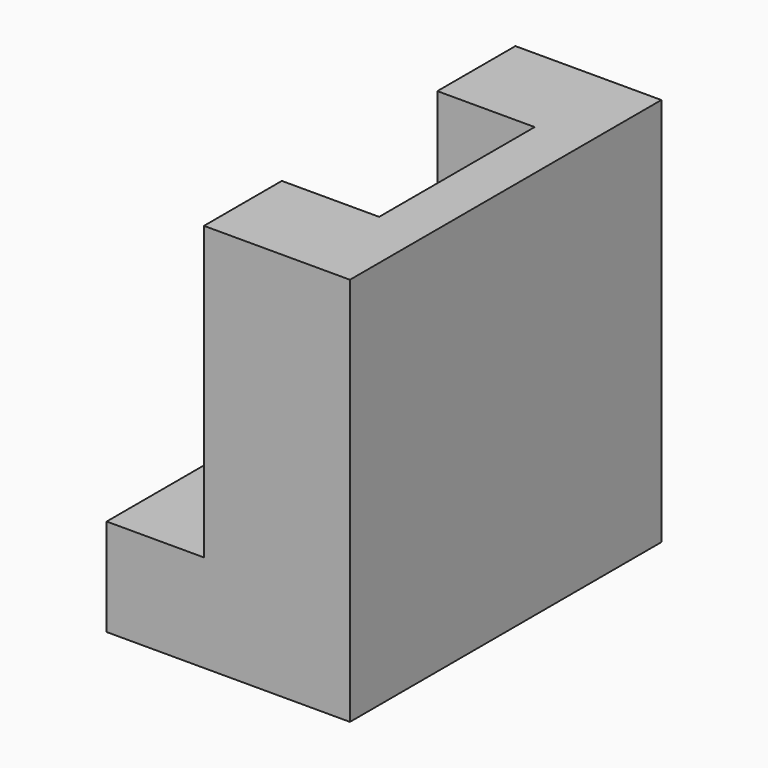
from build123d import *

# Parameters (mm, degrees)
F1_DEPTH = 101.6
F2_DEPTH = 25.4
F3_W     = 25.4
F3_H     = 50.747624588
F4_DEPTH = 38.1


with BuildPart() as f1:
    # F0 (on Front) → F1 (new body)
    with BuildSketch(Plane.XZ):
        Polygon((-40.3379746149, -16.229630179), (-40.3379746149, -41.629630179), (23.1620253851, -41.629630179), (23.1620253851, 34.570369821), (-14.9379746149, 34.570369821), (-14.9379746149, -16.229630179), align=None)
    extrude(amount=F1_DEPTH)

    # F2 (add): a face of the model
    f2_faces = [f1.faces().sort_by_distance(p)[0] for p in [
        (4.1120253851, -50.8, 34.570369821),
    ]]
    extrude(f2_faces, amount=F2_DEPTH)

    # F3 (on face) → F4 (cut)
    with BuildSketch(Plane.XY.offset(59.970369821)):
        with Locations((-2.2379746149, -50.826187706)):
            Rectangle(F3_W, F3_H)
    extrude(amount=-F4_DEPTH, mode=Mode.SUBTRACT)


solid = f1.part
